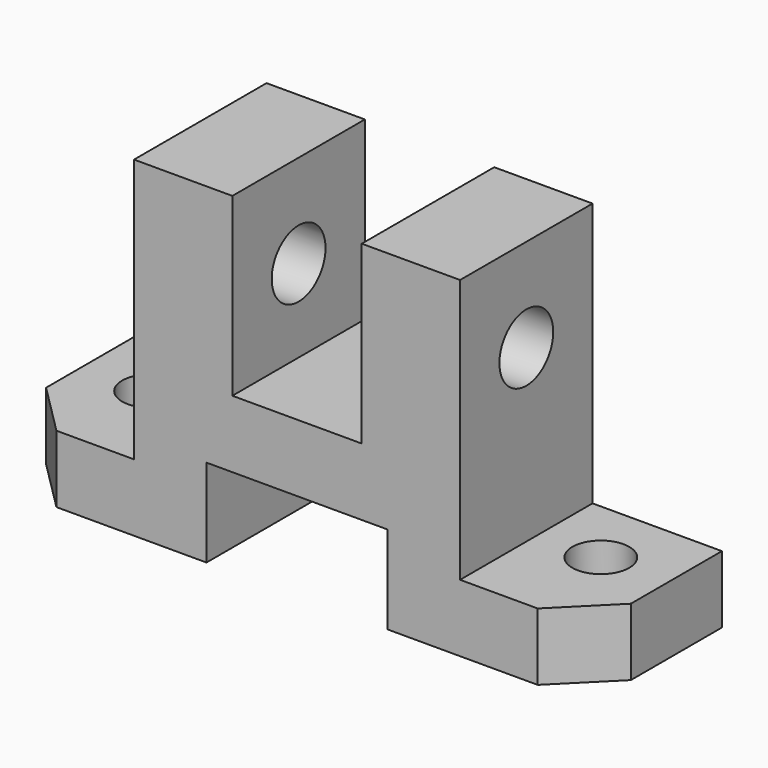
from build123d import *

# Parameters (mm, degrees)
F1_DEPTH = 32
F2_R     = 5.5
F3_DEPTH = 13.001
F5_DEPTH = 13.001
F6_R     = 6.5
F7_DEPTH = 88.001


with BuildPart() as f1:
    # F0 (on Front) → F1 (new body)
    with BuildSketch(Plane.XZ):
        Polygon((-39, 0), (0, 0), (0, 13), (-25, 13), (-25, 64), (-44, 64), (-44, 30), (-69, 30), (-69, 64), (-88, 64), (-88, 13), (-113, 13), (-113, 0), (-74, 0), (-74, 17), (-39, 17), align=None)
    extrude(amount=-F1_DEPTH)

    # F2 (on face) → F3 (cut, through all)
    with BuildSketch(Plane.XY.offset(13)):
        with Locations((-13, 19)):
            Circle(F2_R)
        with Locations((-100, 19)):
            Circle(F2_R)
    extrude(amount=-F3_DEPTH, mode=Mode.SUBTRACT)

    # F4 (on face) → F5 (cut, through all)
    with BuildSketch(Plane.XY.offset(13)):
        Polygon((-113, 10), (-113, 0), (-103, 0), align=None)
        Polygon((-10, 0), (0, 0), (0, 10), align=None)
    extrude(amount=-F5_DEPTH, mode=Mode.SUBTRACT)

    # F6 (on face) → F7 (cut, through all)
    with BuildSketch(Plane.YZ.offset(-25)):
        with Locations((16, 46)):
            Circle(F6_R)
    extrude(amount=-F7_DEPTH, mode=Mode.SUBTRACT)


solid = f1.part
